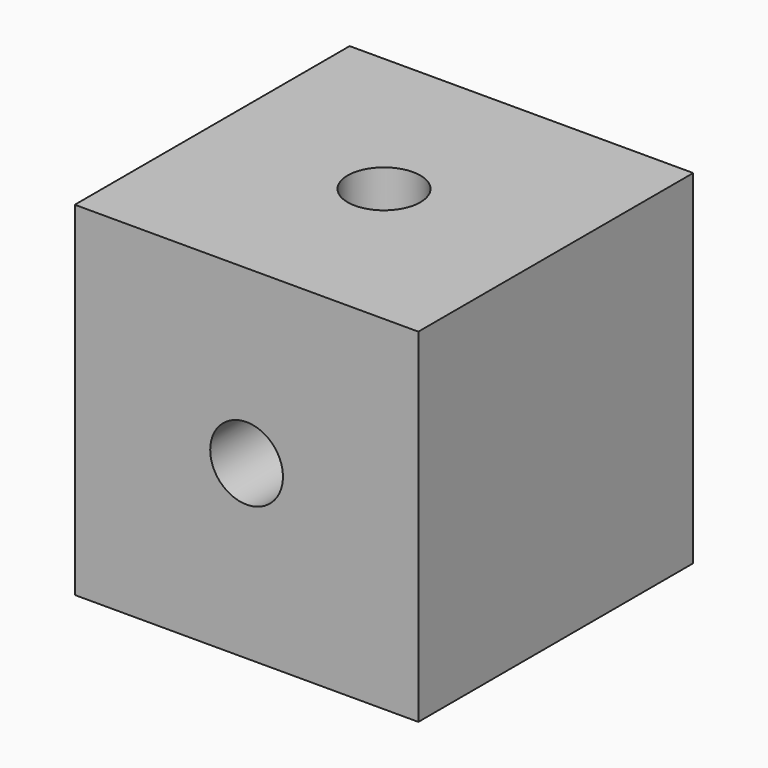
from build123d import *

# Parameters (mm, degrees)
F0_W     = 30
F0_H     = 30
F1_DEPTH = 30
F2_R     = 3.175
F3_DEPTH = 30.001
F4_R     = 3.175
F5_DEPTH = 30.001


with BuildPart() as f1:
    # F0 (on Front) → F1 (new body)
    with BuildSketch(Plane.XZ):
        with Locations((-15, 15)):
            Rectangle(F0_W, F0_H)
    extrude(amount=F1_DEPTH)

    # F2 (on face) → F3 (cut, through all)
    with BuildSketch(Plane(origin=(0, 0, 0), x_dir=(-1, 0, 0), z_dir=(0, 1, 0))):
        with Locations((15, 15)):
            Circle(F2_R)
    extrude(amount=-F3_DEPTH, mode=Mode.SUBTRACT)

    # F4 (on face) → F5 (cut, through all)
    with BuildSketch(Plane(origin=(0, 0, 0), x_dir=(1, 0, 0), z_dir=(0, 0, -1))):
        with Locations((-15, 15)):
            Circle(F4_R)
    extrude(amount=-F5_DEPTH, mode=Mode.SUBTRACT)


solid = f1.part
